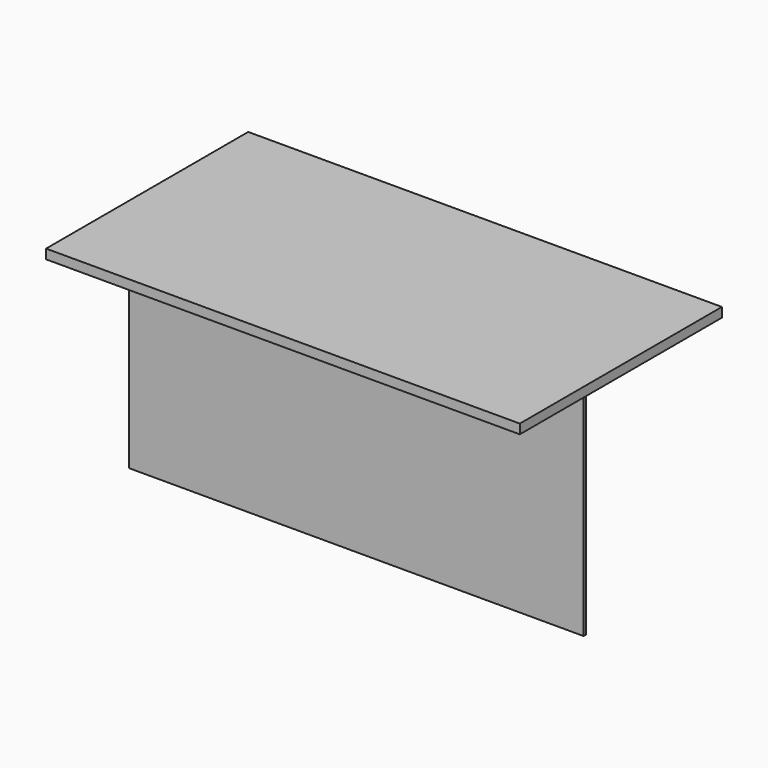
from build123d import *

# Parameters (mm, degrees)
F0_W     = 38.1
F0_H     = 1016
F0_W_2   = 1828.8
F1_DEPTH = 38.1
F2_DEPTH = 876.3
F4_W     = 1828.8
F4_H     = 876.3
F5_DEPTH = 12.7
F6_W     = 1016
F6_H     = 876.3
F7_DEPTH = 38.1
F8_W     = 1016
F8_H     = 876.3
F9_DEPTH = 38.1


with BuildPart() as f1:
    # F0 (on Top) → F1 (new body)
    with BuildSketch(Plane.XY):
        with Locations((-933.45, 0)):
            Rectangle(F0_W, F0_H)
        Rectangle(F0_W_2, F0_H)
        with Locations((933.45, 0)):
            Rectangle(F0_W, F0_H)
    extrude(amount=F1_DEPTH)

    # F0 (on Top) → F2 (join)
    with BuildSketch(Plane.XY):
        with Locations((-933.45, 0)):
            Rectangle(F0_W, F0_H)
        with Locations((933.45, 0)):
            Rectangle(F0_W, F0_H)
    extrude(amount=-F2_DEPTH)

    # F6 (on face) → F7 (cut)
    with BuildSketch(Plane.YZ.offset(952.5)):
        with Locations((0, -438.15)):
            Rectangle(F6_W, F6_H)
    extrude(amount=-F7_DEPTH, mode=Mode.SUBTRACT)

    # F8 (on face) → F9 (cut)
    with BuildSketch(Plane(origin=(-952.5, 0, 0), x_dir=(0, -1, 0), z_dir=(-1, 0, 0))):
        with Locations((0, -438.15)):
            Rectangle(F8_W, F8_H)
    extrude(amount=-F9_DEPTH, mode=Mode.SUBTRACT)


with BuildPart() as f5:
    # F4 (on offset) → F5 (new body)
    with BuildSketch(Plane.XZ.offset(127)):
        with Locations((0, -438.15)):
            Rectangle(F4_W, F4_H)
    extrude(amount=F5_DEPTH)


solid = Compound([f1.part, f5.part])
